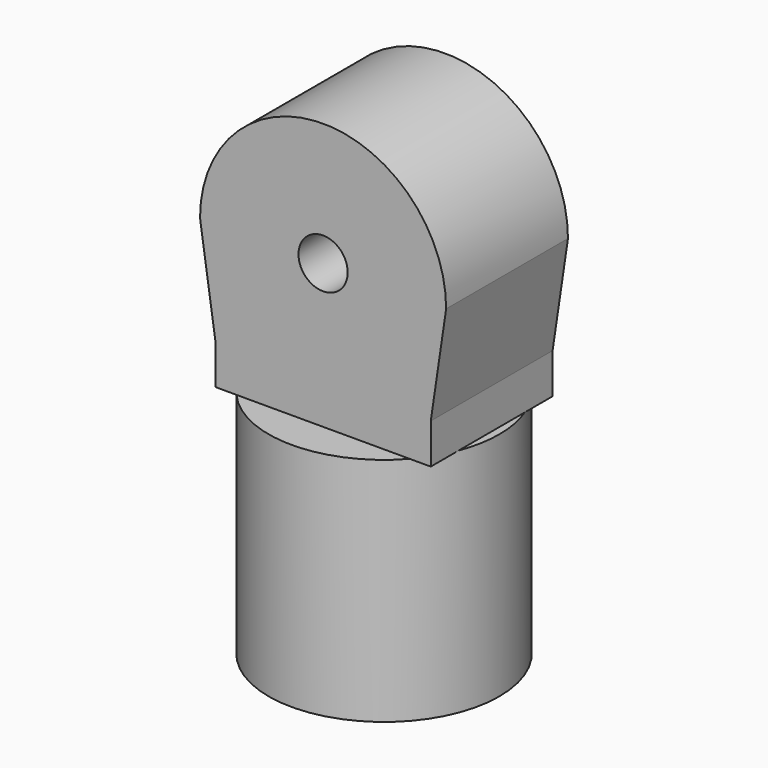
from build123d import *

# Parameters (mm, degrees)
SKETCH017_R             = 1.6
PAD008_DEPTH            = 4.95
SKETCH018_R             = 7.5
PAD009_DEPTH            = 15
SKETCH019_R             = 5.55
POCKET004_DEPTH         = 14
BODY004_PLACEMENT_ANGLE = 90


with BuildPart() as part:
    # Sketch017 (on DatumPlane) → Pad008 (new body, symmetric)
    with BuildSketch(Plane(origin=(110, 5, 25), x_dir=(0, 0, 1), z_dir=(0, -1, 0))):
        with BuildLine():
            ThreePointArc((8, -2.2e-05), (0, 8), (-8, -2.2e-05))
            Line((-7, -6.742665), (-8, -2.2e-05))
            Line((-7, -9.356116), (-7, -6.742665))
            Line((7, -9.356116), (-7, -9.356116))
            Line((7, -6.742665), (7, -9.356116))
            Line((8, -2.2e-05), (7, -6.742665))
        make_face()
        Circle(SKETCH017_R, mode=Mode.SUBTRACT)
    extrude(amount=PAD008_DEPTH, both=True)

    # Sketch018 (on DatumPlane) → Pad009 (join)
    with BuildSketch(Plane(origin=(119.356116, 5, 25), x_dir=(0, 0, 1), z_dir=(1, 0, 0))):
        Circle(SKETCH018_R)
    extrude(amount=PAD009_DEPTH)

    # Sketch019 (on DatumPlane) → Pocket004 (cut)
    with BuildSketch(Plane(origin=(134.356116, 5, 25), x_dir=(0, 0, 1), z_dir=(1, 0, 0))):
        Circle(SKETCH019_R)
    extrude(amount=-POCKET004_DEPTH, mode=Mode.SUBTRACT)


with BuildPart() as part_1:
    # Body004 placement: moved
    add(part.part.moved(Location((35, 0, 71))).rotate(Axis((35, 0, 71), (0, 1, 0)), BODY004_PLACEMENT_ANGLE))


solid = part_1.part
